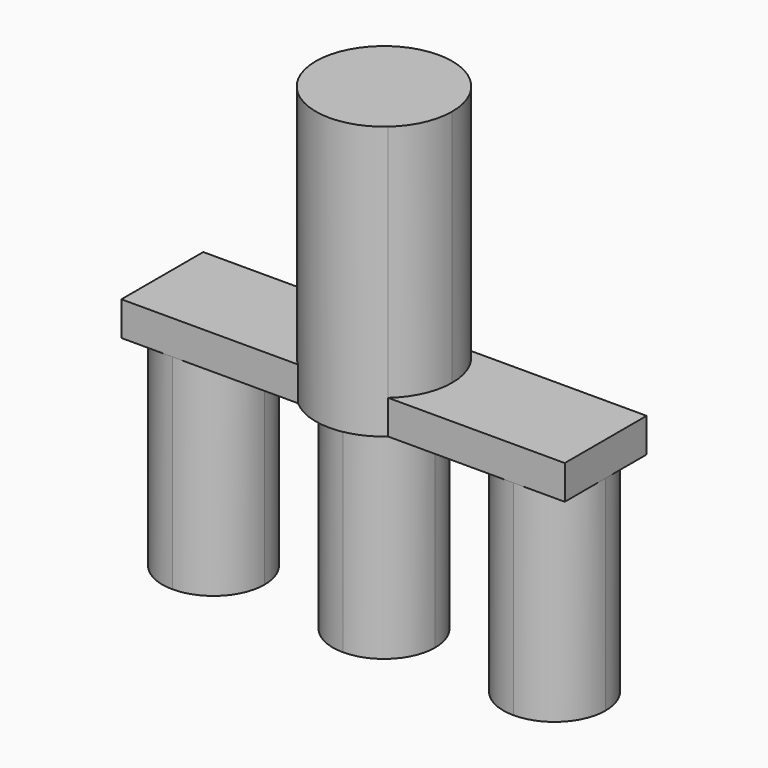
from build123d import *

# Parameters (mm, degrees)
F1_DEPTH = 12.7
F2_DEPTH = 76.2
F3_DEPTH = 101.6


with BuildPart() as f1:
    # F0 (on Top) → F1 (new body)
    with BuildSketch(Plane.XY):
        with BuildLine():
            ThreePointArc((-82.55, 1.56e-07), (-76.9703841264, 13.4703842368), (-63.5, 19.05))
            Line((-63.5, 19.05), (-82.55, 19.05))
            Line((-82.55, 19.05), (-82.55, 1.56e-07))
        make_face()
        with BuildLine():
            ThreePointArc((-63.5, -19.05), (-76.9703842368, -13.4703841264), (-82.55, 1.56e-07))
            Line((-82.55, 1.56e-07), (-82.55, -19.05))
            Line((-82.55, -19.05), (-63.5, -19.05))
        make_face()
        with BuildLine():
            Line((82.55, 0), (82.55, 19.05))
            Line((82.55, 19.05), (63.5, 19.05))
            ThreePointArc((63.5, 19.05), (76.9703841816, 13.4703841816), (82.55, 0))
        make_face()
        with BuildLine():
            Line((82.55, -19.05), (82.55, 0))
            ThreePointArc((82.55, 0), (76.9703841816, -13.4703841816), (63.5, -19.05))
            Line((63.5, -19.05), (82.55, -19.05))
        make_face()
        with BuildLine():
            ThreePointArc((25.4, 0), (23.1505208253, 10.4505208253), (16.8005208253, 19.05))
            Line((16.8005208253, 19.05), (1.179e-07, 19.05))
            ThreePointArc((1.179e-07, 19.05), (13.4703842233, 13.4703841399), (19.05, 0))
            Line((19.05, 0), (25.4, 0))
        make_face()
        with BuildLine():
            ThreePointArc((19.05, 0), (13.4703842233, 13.4703841399), (1.179e-07, 19.05))
            ThreePointArc((1.179e-07, 19.05), (-13.4703841399, 13.4703842233), (-19.05, 0))
            ThreePointArc((-19.05, 0), (-13.4703841805, -13.4703841827), (3.1e-09, -19.05))
            ThreePointArc((3.1e-09, -19.05), (13.4703841827, -13.4703841805), (19.05, 0))
        make_face()
        with BuildLine():
            ThreePointArc((-25.4, 0), (-23.1505208253, 10.4505208253), (-16.8005208253, 19.05))
            Line((-16.8005208253, 19.05), (-63.5, 19.05))
            ThreePointArc((-63.5, 19.05), (-50.0296158184, 13.4703841816), (-44.45, 0))
            Line((-44.45, 0), (-25.4, 0))
        make_face()
        with BuildLine():
            ThreePointArc((-44.45, 0), (-50.0296158184, 13.4703841816), (-63.5, 19.05))
            ThreePointArc((-63.5, 19.05), (-76.9703841264, 13.4703842368), (-82.55, 1.56e-07))
            ThreePointArc((-82.55, 1.56e-07), (-76.9703842368, -13.4703841264), (-63.5, -19.05))
            ThreePointArc((-63.5, -19.05), (-50.0296158184, -13.4703841816), (-44.45, 0))
        make_face()
        with BuildLine():
            ThreePointArc((-16.8005208253, -19.05), (-23.1505208253, -10.4505208253), (-25.4, 0))
            Line((-25.4, 0), (-44.45, 0))
            ThreePointArc((-44.45, 0), (-50.0296158184, -13.4703841816), (-63.5, -19.05))
            Line((-63.5, -19.05), (-16.8005208253, -19.05))
        make_face()
        with BuildLine():
            ThreePointArc((-19.05, 0), (-13.4703841399, 13.4703842233), (1.179e-07, 19.05))
            Line((1.179e-07, 19.05), (-16.8005208253, 19.05))
            ThreePointArc((-16.8005208253, 19.05), (-23.1505208253, 10.4505208253), (-25.4, 0))
            Line((-25.4, 0), (-19.05, 0))
        make_face()
        with BuildLine():
            ThreePointArc((3.1e-09, -19.05), (-13.4703841805, -13.4703841827), (-19.05, 0))
            Line((-19.05, 0), (-25.4, 0))
            ThreePointArc((-25.4, 0), (-23.1505208253, -10.4505208253), (-16.8005208253, -19.05))
            Line((-16.8005208253, -19.05), (3.1e-09, -19.05))
        make_face()
        with BuildLine():
            ThreePointArc((16.8005208253, -19.05), (23.1505208253, -10.4505208253), (25.4, 0))
            Line((25.4, 0), (19.05, 0))
            ThreePointArc((19.05, 0), (13.4703841827, -13.4703841805), (3.1e-09, -19.05))
            Line((3.1e-09, -19.05), (16.8005208253, -19.05))
        make_face()
        with BuildLine():
            ThreePointArc((63.5, -19.05), (50.0296158184, -13.4703841816), (44.45, 0))
            Line((44.45, 0), (25.4, 0))
            ThreePointArc((25.4, 0), (23.1505208253, -10.4505208253), (16.8005208253, -19.05))
            Line((16.8005208253, -19.05), (63.5, -19.05))
        make_face()
        with BuildLine():
            ThreePointArc((44.45, 0), (50.0296158184, 13.4703841816), (63.5, 19.05))
            Line((63.5, 19.05), (16.8005208253, 19.05))
            ThreePointArc((16.8005208253, 19.05), (23.1505208253, 10.4505208253), (25.4, 0))
            Line((25.4, 0), (44.45, 0))
        make_face()
        with BuildLine():
            ThreePointArc((82.55, 0), (76.9703841816, 13.4703841816), (63.5, 19.05))
            ThreePointArc((63.5, 19.05), (50.0296158184, 13.4703841816), (44.45, 0))
            ThreePointArc((44.45, 0), (50.0296158184, -13.4703841816), (63.5, -19.05))
            ThreePointArc((63.5, -19.05), (76.9703841816, -13.4703841816), (82.55, 0))
        make_face()
    extrude(amount=F1_DEPTH)


with BuildPart() as f2:
    # F0 (on Top) → F2 (new body)
    with BuildSketch(Plane.XY):
        with BuildLine():
            ThreePointArc((82.55, 0), (76.9703841816, 13.4703841816), (63.5, 19.05))
            ThreePointArc((63.5, 19.05), (50.0296158184, 13.4703841816), (44.45, 0))
            ThreePointArc((44.45, 0), (50.0296158184, -13.4703841816), (63.5, -19.05))
            ThreePointArc((63.5, -19.05), (76.9703841816, -13.4703841816), (82.55, 0))
        make_face()
    extrude(amount=-F2_DEPTH)


with BuildPart() as f2b:
    # F0 (on Top) → F2, piece 2 (new body)
    with BuildSketch(Plane.XY):
        with BuildLine():
            ThreePointArc((19.05, 0), (13.4703842233, 13.4703841399), (1.179e-07, 19.05))
            ThreePointArc((1.179e-07, 19.05), (-13.4703841399, 13.4703842233), (-19.05, 0))
            ThreePointArc((-19.05, 0), (-13.4703841805, -13.4703841827), (3.1e-09, -19.05))
            ThreePointArc((3.1e-09, -19.05), (13.4703841827, -13.4703841805), (19.05, 0))
        make_face()
    extrude(amount=-F2_DEPTH)


with BuildPart() as f2c:
    # F0 (on Top) → F2, piece 3 (new body)
    with BuildSketch(Plane.XY):
        with BuildLine():
            ThreePointArc((-44.45, 0), (-50.0296158184, 13.4703841816), (-63.5, 19.05))
            ThreePointArc((-63.5, 19.05), (-76.9703841264, 13.4703842368), (-82.55, 1.56e-07))
            ThreePointArc((-82.55, 1.56e-07), (-76.9703842368, -13.4703841264), (-63.5, -19.05))
            ThreePointArc((-63.5, -19.05), (-50.0296158184, -13.4703841816), (-44.45, 0))
        make_face()
    extrude(amount=-F2_DEPTH)


with BuildPart() as f3:
    # F0 (on Top) → F3 (new body)
    with BuildSketch(Plane.XY):
        with BuildLine():
            Line((1.179e-07, 19.05), (16.8005208253, 19.05))
            ThreePointArc((16.8005208253, 19.05), (0, 25.4), (-16.8005208253, 19.05))
            Line((-16.8005208253, 19.05), (1.179e-07, 19.05))
        make_face()
        with BuildLine():
            ThreePointArc((-19.05, 0), (-13.4703841399, 13.4703842233), (1.179e-07, 19.05))
            Line((1.179e-07, 19.05), (-16.8005208253, 19.05))
            ThreePointArc((-16.8005208253, 19.05), (-23.1505208253, 10.4505208253), (-25.4, 0))
            Line((-25.4, 0), (-19.05, 0))
        make_face()
        with BuildLine():
            ThreePointArc((19.05, 0), (13.4703842233, 13.4703841399), (1.179e-07, 19.05))
            ThreePointArc((1.179e-07, 19.05), (-13.4703841399, 13.4703842233), (-19.05, 0))
            ThreePointArc((-19.05, 0), (-13.4703841805, -13.4703841827), (3.1e-09, -19.05))
            ThreePointArc((3.1e-09, -19.05), (13.4703841827, -13.4703841805), (19.05, 0))
        make_face()
        with BuildLine():
            ThreePointArc((3.1e-09, -19.05), (-13.4703841805, -13.4703841827), (-19.05, 0))
            Line((-19.05, 0), (-25.4, 0))
            ThreePointArc((-25.4, 0), (-23.1505208253, -10.4505208253), (-16.8005208253, -19.05))
            Line((-16.8005208253, -19.05), (3.1e-09, -19.05))
        make_face()
        with BuildLine():
            ThreePointArc((-16.8005208253, -19.05), (0, -25.4), (16.8005208253, -19.05))
            Line((16.8005208253, -19.05), (3.1e-09, -19.05))
            Line((3.1e-09, -19.05), (-16.8005208253, -19.05))
        make_face()
        with BuildLine():
            ThreePointArc((16.8005208253, -19.05), (23.1505208253, -10.4505208253), (25.4, 0))
            Line((25.4, 0), (19.05, 0))
            ThreePointArc((19.05, 0), (13.4703841827, -13.4703841805), (3.1e-09, -19.05))
            Line((3.1e-09, -19.05), (16.8005208253, -19.05))
        make_face()
        with BuildLine():
            ThreePointArc((25.4, 0), (23.1505208253, 10.4505208253), (16.8005208253, 19.05))
            Line((16.8005208253, 19.05), (1.179e-07, 19.05))
            ThreePointArc((1.179e-07, 19.05), (13.4703842233, 13.4703841399), (19.05, 0))
            Line((19.05, 0), (25.4, 0))
        make_face()
    extrude(amount=F3_DEPTH)


solid = Compound([f1.part, f2.part, f2b.part, f2c.part, f3.part])
